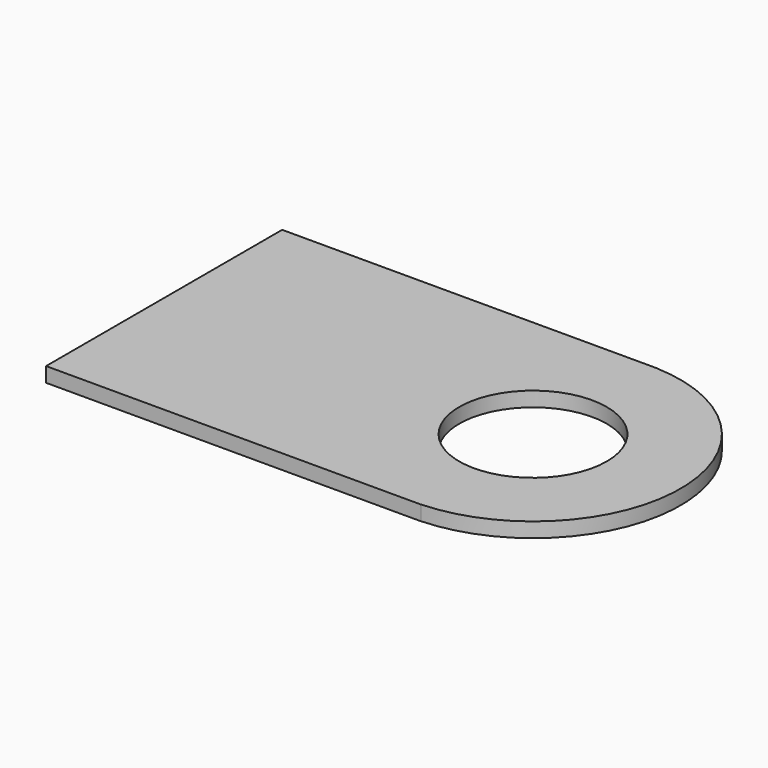
from build123d import *

# Parameters (mm, degrees)
CYLINDER005_R     = 0.5
CYLINDER005_DEPTH = 0.1
BOX004_W          = 2.54
BOX004_H          = 2
BOX004_DEPTH      = 0.1
CYLINDER004_R     = 0.5
CYLINDER004_DEPTH = 0.1
CYLINDER003_R     = 1
CYLINDER003_DEPTH = 0.1


with BuildPart() as cylinder005:
    # Cylinder005 → Cylinder005 (new body)
    with BuildSketch(Plane.XY.offset(1)):
        Circle(CYLINDER005_R)
    extrude(amount=CYLINDER005_DEPTH)


with BuildPart() as cut004:
    # Box004 → Box004 (new body)
    with BuildSketch(Plane(origin=(-2.5, -1, 1), x_dir=(1, 0, 0), z_dir=(0, 0, 1))):
        with Locations((1.27, 1)):
            Rectangle(BOX004_W, BOX004_H)
    extrude(amount=BOX004_DEPTH)

    # Cut004: cut Cylinder005
    add(cylinder005.part, mode=Mode.SUBTRACT)


with BuildPart() as cylinder004:
    # Cylinder004 → Cylinder004 (new body)
    with BuildSketch(Plane.XY.offset(1)):
        Circle(CYLINDER004_R)
    extrude(amount=CYLINDER004_DEPTH)


with BuildPart() as fusion001:
    # Cylinder003 → Cylinder003 (new body)
    with BuildSketch(Plane.XY.offset(1)):
        Circle(CYLINDER003_R)
    extrude(amount=CYLINDER003_DEPTH)

    # Cut003: cut Cylinder004
    add(cylinder004.part, mode=Mode.SUBTRACT)

    # Fusion001: union Cut004
    add(cut004.part)


with BuildPart() as fusion001_1:
    # Fusion001 placement: moved
    add(fusion001.part.moved(Location((0, -2.54, 5.5))))


solid = fusion001_1.part
